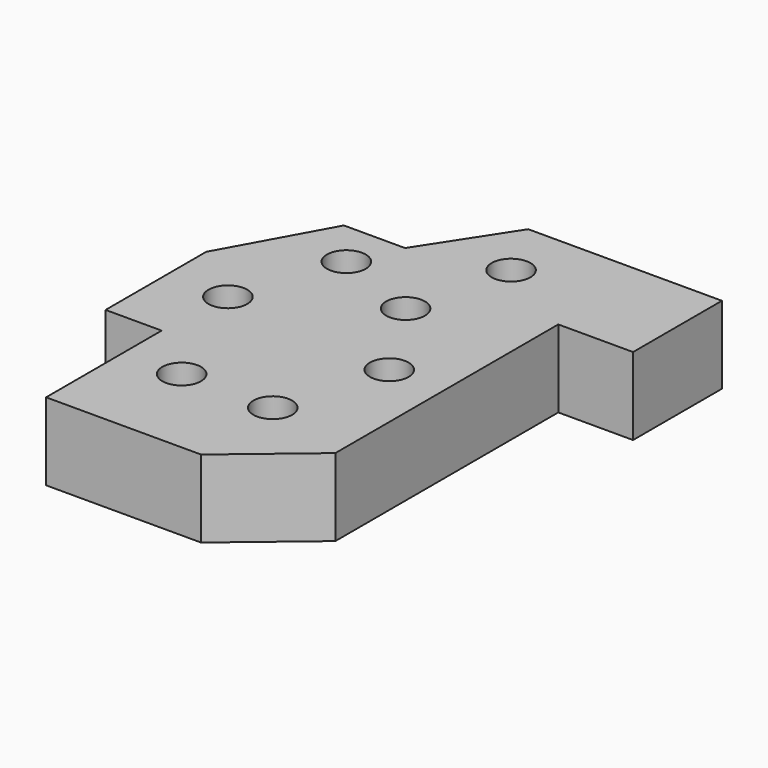
from build123d import *

# Parameters (mm, degrees)
F1_DEPTH = 20
F2_R     = 5
F3_DEPTH = 20.001


with BuildPart() as f1:
    # F0 (on Top) → F1 (new body)
    with BuildSketch(Plane.XY):
        Polygon((0, 37.28), (0, 0), (40, 0), (60.74, 17.402926), (60.74, 89.33), (80.04, 89.33), (80.04, 118), (30.04, 118), (15.793049, 96.07), (0.005525, 96.07), (-14.47, 69.75), (-14.47, 37.28), align=None)
    extrude(amount=F1_DEPTH)

    # F2 (on Top) → F3 (cut, through all)
    with BuildSketch(Plane.XY):
        with Locations((15, 25)):
            Circle(F2_R)
        with Locations((38.51, 25)):
            Circle(F2_R)
        with Locations((46.5, 52.61)):
            Circle(F2_R)
        with Locations((1.22, 57.14)):
            Circle(F2_R)
        with Locations((32.38, 75.51)):
            Circle(F2_R)
        with Locations((10.27, 84.04)):
            Circle(F2_R)
        with Locations((38.51, 101.88)):
            Circle(F2_R)
    extrude(amount=F3_DEPTH, mode=Mode.SUBTRACT)


solid = f1.part
